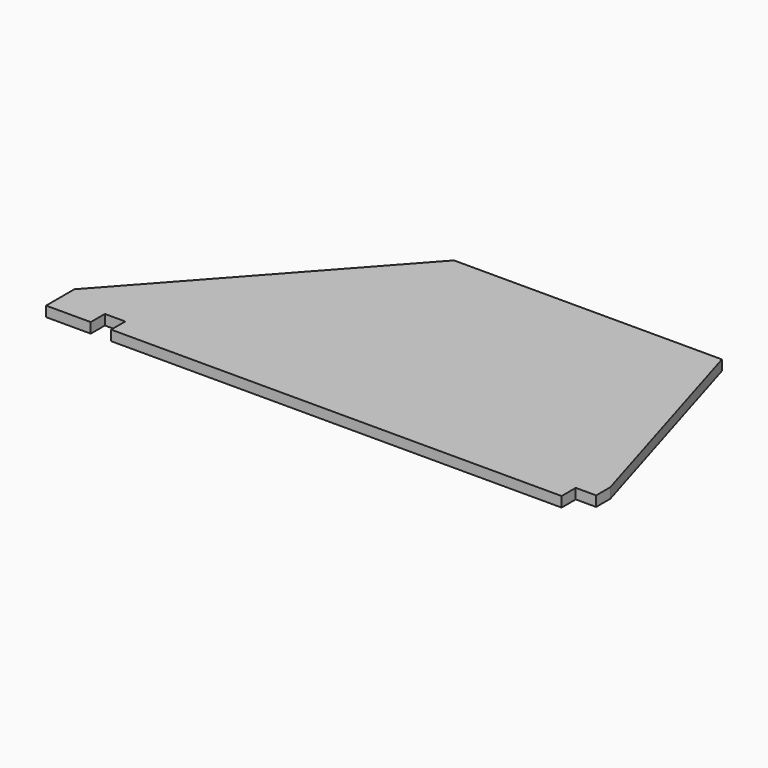
from build123d import *

# Parameters (mm, degrees)
PAD_DEPTH = 5.8


with BuildPart() as part:
    # Sketch → Pad (new body)
    with BuildSketch(Plane.XY):
        Polygon((0, -20.1), (0, 0), (114.3, 127), (266.7, 127), (304.8, 0), (304.8, -10.05), (293.2, -10.05), (293.2, -20.1), (37, -20.1), (37, -10.05), (25.4, -10.05), (25.4, -20.1), align=None)
    extrude(amount=PAD_DEPTH)


solid = part.part
